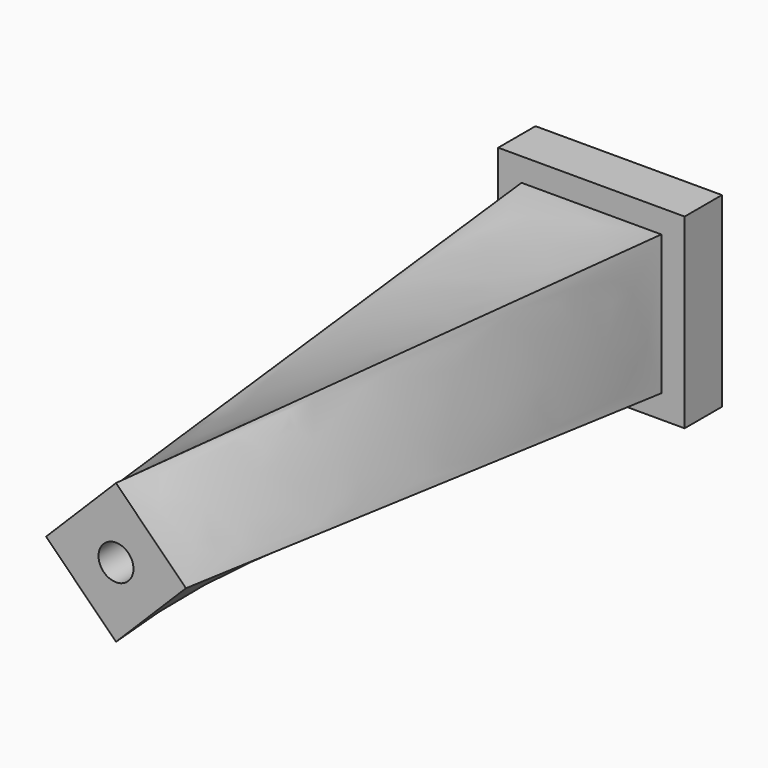
from build123d import *

# Parameters (mm, degrees)
F0_W     = 101.6
F0_H     = 101.6
F1_DEPTH = 25.4
F4_W     = 76.2
F4_H     = 76.2
F7_D     = 19.05
F7_DEPTH = 63.5
F7_TIP   = 5.7231973962
F9_D     = 19.05
F9_DEPTH = 38.1
F9_TIP   = 5.7231973962


with BuildPart() as f1:
    # F0 (on Front) → F1 (new body)
    with BuildSketch(Plane.XZ):
        with Locations((50.8, 50.8)):
            Rectangle(F0_W, F0_H)
    extrude(amount=F1_DEPTH)

    # F3 (on offset) → F5 section 0
    with BuildSketch(Plane.XZ.offset(349.25)):
        Polygon((88.9, 50.8), (50.8, 88.9), (12.7, 50.8), (50.8, 12.7), align=None)
    # F4 (on face) → F5 section 1
    with BuildSketch(Plane.XZ.offset(25.4)):
        with Locations((50.8, 50.8)):
            Rectangle(F4_W, F4_H)
    loft()

    # F7
    with Locations(Plane(origin=(0, 0, 0), x_dir=(-1, 0, 0), z_dir=(0, 1, 0))):
        with Locations((-50.8, 50.8)):
            Hole(F7_D / 2, depth=F7_DEPTH)
            with Locations((0, 0, -(F7_DEPTH + F7_TIP / 2))):  # 118° drill point
                Cone(0, F7_D / 2, F7_TIP, mode=Mode.SUBTRACT)

    # F9
    with Locations(Plane.XZ.offset(349.25)):
        with Locations((50.8, 50.8)):
            Hole(F9_D / 2, depth=F9_DEPTH)
            with Locations((0, 0, -(F9_DEPTH + F9_TIP / 2))):  # 118° drill point
                Cone(0, F9_D / 2, F9_TIP, mode=Mode.SUBTRACT)


solid = f1.part
